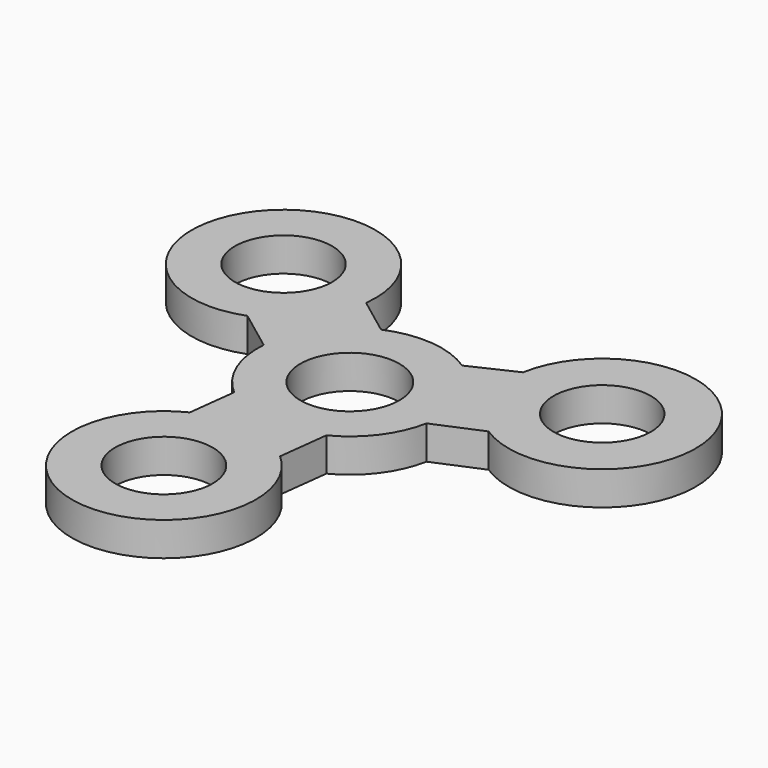
from build123d import *

# Parameters (mm, degrees)
F1_R      = 22.86
F8_DEPTH  = 8.382
F5_R      = 22.86
F5_R_2    = 23.2590602535
F5_R_3    = 22.8896939672
F3_R      = 12.065
F9_DEPTH  = 25.908
F0_R      = 12.065
F10_DEPTH = 39.878
F12_R     = 12.0825397837
F12_R_2   = 12.1193647321
F12_R_3   = 12.0891778509
F13_DEPTH = 25.4
F14_R     = 12.3194510373
F15_DEPTH = 25.4


with BuildPart() as f8:
    # F1 (on Top) → F8 (new body)
    with BuildSketch(Plane.XY):
        Circle(F1_R)
    extrude(amount=F8_DEPTH)

    # F3 (on Top) → F9 (cut)
    with BuildSketch(Plane.XY):
        with Locations((-41.2355296061, 30.9968510523)):
            Circle(F3_R)
        with Locations((47.3912737196, 20.2672132623)):
            Circle(F3_R)
        with Locations((-6.2569124064, -50.5483931394)):
            Circle(F3_R)
    extrude(amount=-F9_DEPTH, mode=Mode.SUBTRACT)


with BuildPart() as f8b:
    # F4 (on Top) → F8, piece 2 (new body)
    with BuildSketch(Plane.XY):
        Polygon((-7.2568234486, -9.9568761684), (0, 0), (-40.8516675234, 30.6916665286), (-48.2515008219, 20.8422329908), align=None)
        Polygon((-40.8516675234, 30.6916665286), (0, 0), (6.6820263642, 9.1682138243), (-33.8416725592, 39.6134790794), align=None)
    extrude(amount=F8_DEPTH)


with BuildPart() as f8c:
    # F5 (on Top) → F8, piece 3 (new body)
    with BuildSketch(Plane.XY):
        with Locations((-41.0204199318, 30.6730984167)):
            Circle(F5_R)
    extrude(amount=F8_DEPTH)


with BuildPart() as f8d:
    # F5 (on Top) → F8, piece 4 (new body)
    with BuildSketch(Plane.XY):
        with Locations((46.5983533047, 20.1435375921)):
            Circle(F5_R_2)
    extrude(amount=F8_DEPTH)


with BuildPart() as f8e:
    # F5 (on Top) → F8, piece 5 (new body)
    with BuildSketch(Plane.XY):
        with Locations((-6.2648058406, -49.9444669655)):
            Circle(F5_R_3)
    extrude(amount=F8_DEPTH)


with BuildPart() as f8f:
    # F6 (on Top) → F8, piece 6 (new body)
    with BuildSketch(Plane.XY):
        Polygon((-6.1354051676, -50.8), (0, 0), (-12.4105271356, 2.6960742232), (-18.6884442668, -49.2838980126), align=None)
        Polygon((12.7, -1.5338512919), (0, 0), (-6.1354051676, -50.8), (6.5645948324, -52.3338512919), align=None)
    extrude(amount=F8_DEPTH)


with BuildPart() as f8g:
    # F7 (on Top) → F8, piece 7 (new body)
    with BuildSketch(Plane.XY):
        Polygon((-4.6202341585, 10.9058370142), (0, 0), (46.7755481242, 19.8163593447), (41.3952207145, 32.5163593447), align=None)
        Polygon((46.7755481242, 19.8163593447), (0, 0), (5.4993537205, -11.462887171), (51.7296379604, 8.1224723137), align=None)
    extrude(amount=F8_DEPTH)


with BuildPart() as f10_tool:
    # F0 (on Top) → F10 (new body)
    with BuildSketch(Plane.XY):
        Circle(F0_R)
    extrude(amount=F10_DEPTH)


with BuildPart() as f8_1:
    add(f8.part)

    # F10: cut by f10_tool
    add(f10_tool.part, mode=Mode.SUBTRACT)


with BuildPart() as f8b_1:
    add(f8b.part)

    # F10: cut by f10_tool
    add(f10_tool.part, mode=Mode.SUBTRACT)


with BuildPart() as f8f_1:
    add(f8f.part)

    # F10: cut by f10_tool
    add(f10_tool.part, mode=Mode.SUBTRACT)


with BuildPart() as f8g_1:
    add(f8g.part)

    # F10: cut by f10_tool
    add(f10_tool.part, mode=Mode.SUBTRACT)


with BuildPart() as f8f_2:
    add(f8f_1.part)

    # F11: union F8b, F8c, F8, F8d, F8e, F8g
    add(f8b_1.part)
    add(f8c.part)
    add(f8_1.part)
    add(f8d.part)
    add(f8e.part)
    add(f8g_1.part)

    # F12 (on face) → F13 (cut)
    with BuildSketch(Plane.XY.offset(8.382)):
        with Locations((-41.0204199318, 30.6730984167)):
            Circle(F12_R)
        with Locations((-6.2648058406, -49.9444669655)):
            Circle(F12_R_2)
        with Locations((46.5983533047, 20.1435375921)):
            Circle(F12_R_3)
    extrude(amount=-F13_DEPTH, mode=Mode.SUBTRACT)

    # F14 (on face) → F15 (cut)
    with BuildSketch(Plane(origin=(0, 0, 0), x_dir=(1, 0, 0), z_dir=(0, 0, -1))):
        Circle(F14_R)
    extrude(amount=-F15_DEPTH, mode=Mode.SUBTRACT)


solid = f8f_2.part
